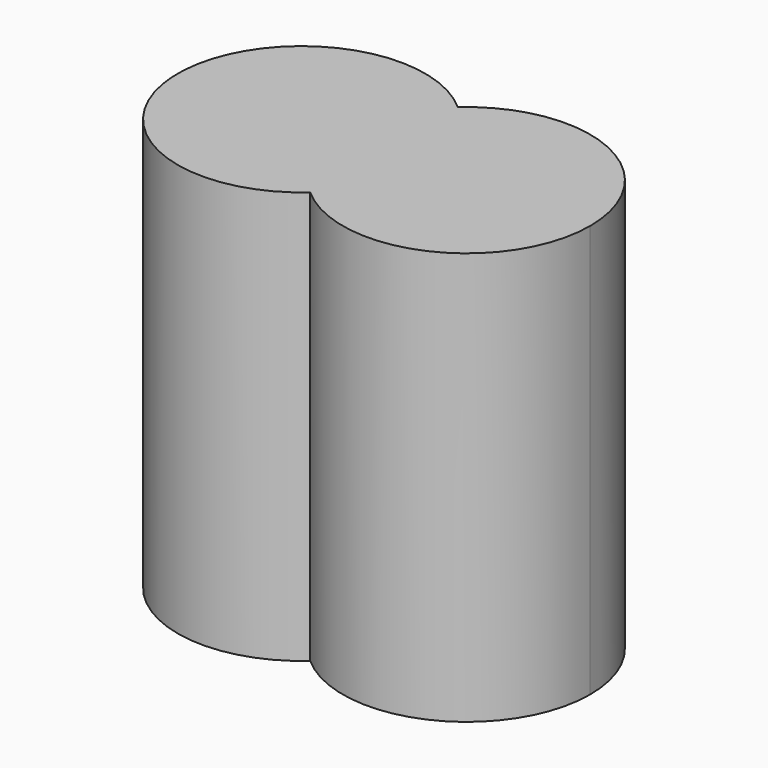
from build123d import *

# Parameters (mm, degrees)
F1_DEPTH = 6


with BuildPart() as f1:
    # F0 (on Top) → F1 (new body)
    with BuildSketch(Plane.XY):
        with BuildLine():
            ThreePointArc((-1.2, -1.341641), (-1.8, 0), (-1.2, 1.341641))
            ThreePointArc((-1.2, 1.341641), (-4.2, 0), (-1.2, -1.341641))
        make_face()
        with BuildLine():
            ThreePointArc((-1.2, -1.341641), (-0.756832, -0.734847), (-0.6, 0))
            ThreePointArc((-0.6, 0), (-0.756832, 0.734847), (-1.2, 1.341641))
            ThreePointArc((-1.2, 1.341641), (-1.8, 0), (-1.2, -1.341641))
        make_face()
        with BuildLine():
            ThreePointArc((-1.2, 1.341641), (-0.756832, 0.734847), (-0.6, 0))
            ThreePointArc((-0.6, 0), (-0.756832, -0.734847), (-1.2, -1.341641))
            ThreePointArc((-1.2, -1.341641), (0.734847, -1.643168), (1.8, 0))
            ThreePointArc((1.8, 0), (0.734847, 1.643168), (-1.2, 1.341641))
        make_face()
    extrude(amount=F1_DEPTH)


solid = f1.part
